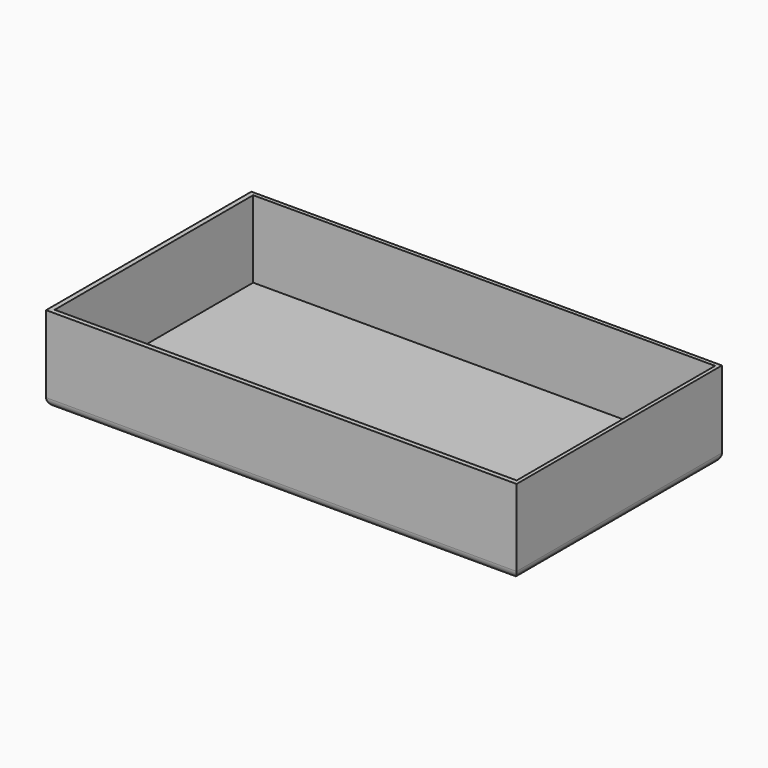
from build123d import *

# Parameters (mm, degrees)
SKETCH_W     = 110
SKETCH_H     = 60
PAD_DEPTH    = 20
SKETCH001_W  = 108
SKETCH001_H  = 58
POCKET_DEPTH = 18
FILLET_R     = 2


with BuildPart() as part:
    # Sketch → Pad (new body)
    with BuildSketch(Plane.XY):
        with Locations((46.444008, -19.812599)):
            Rectangle(SKETCH_W, SKETCH_H)
    extrude(amount=PAD_DEPTH)

    # Sketch001 (on Face6 of Pad) → Pocket (cut)
    with BuildSketch(Plane.XY.offset(20)):
        with Locations((46.57238, -19.707021)):
            Rectangle(SKETCH001_W, SKETCH001_H)
    extrude(amount=-POCKET_DEPTH, mode=Mode.SUBTRACT)

    # Fillet
    fillet_edges = [part.edges().sort_by_distance(p)[0] for p in [
        (46.444008, 10.187401, 0),
        (101.444008, -19.812599, 0),
        (46.444008, -49.812599, 0),
        (-8.555992, -19.812599, 0),
    ]]
    fillet(fillet_edges, radius=FILLET_R)


solid = part.part
